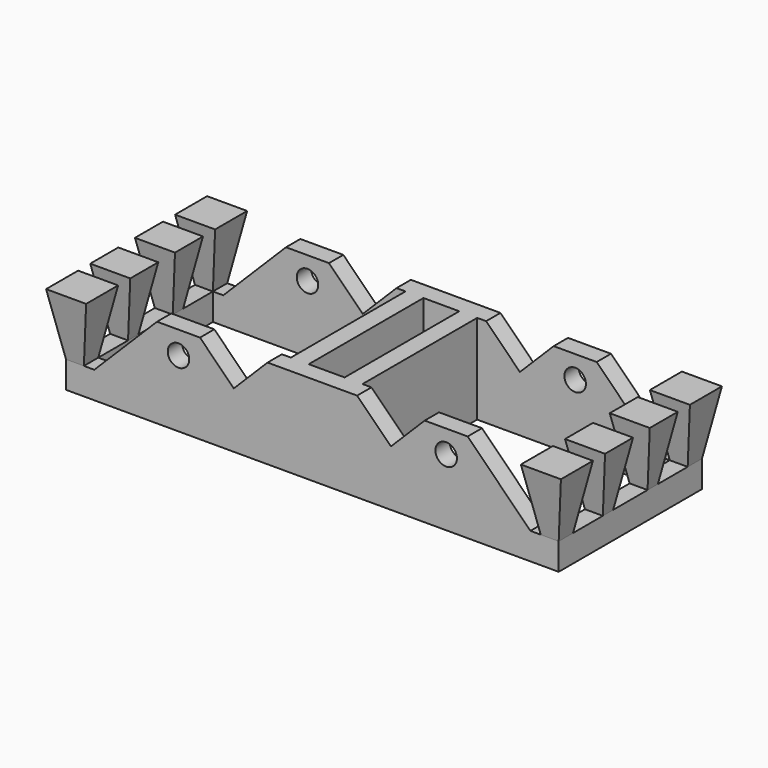
from build123d import *

# Parameters (mm, degrees)
F0_R     = 1.25
F1_DEPTH = 20.8333333333
F2_W     = 22.3958333333
F2_H     = 16.6666666667
F2_W_2   = 4.1666666667
F3_DEPTH = 10.4176666667
F5_W     = 2.0833333333
F5_H     = 2.0833333333
F5_H_2   = 1.5
F6_DEPTH = 7.2916666667
F6_TAPER = -10


with BuildPart() as f1:
    # F0 (on Front) → F1 (new body)
    with BuildSketch(Plane.XZ):
        Polygon((-28.6458333333, 0), (0, 0), (28.6458333333, 0), (28.6458333333, 3.125), (25.3541666667, 3.125), (18.0625, 10.4166666667), (13.0625, 10.4166666667), (9.1354166667, 6.4895833333), (5.2083333333, 10.4166666667), (0, 10.4166666667), (-5.2083333333, 10.4166666667), (-9.1354166667, 6.4895833333), (-13.0625, 10.4166666667), (-18.0625, 10.4166666667), (-25.3541666667, 3.125), (-28.6458333333, 3.125), align=None)
        with Locations((-15.5625, 7.7708333333)):
            Circle(F0_R, mode=Mode.SUBTRACT)
        with Locations((15.5625, 7.7708333333)):
            Circle(F0_R, mode=Mode.SUBTRACT)
    extrude(amount=F1_DEPTH)

    # F2 (on face) → F3 (cut, through all)
    with BuildSketch(Plane.XY.offset(10.4166666667)):
        with Locations((-15.3645833333, -10.4166666667)):
            Rectangle(F2_W, F2_H)
        with Locations((15.3645833333, -10.4166666667)):
            Rectangle(F2_W, F2_H)
        with Locations((0, -10.4166666667)):
            Rectangle(F2_W_2, F2_H)
    extrude(amount=-F3_DEPTH, mode=Mode.SUBTRACT)

    # F5 (on offset) → F6 (join, through all)
    with BuildSketch(Plane.XY.offset(3.125)):
        with Locations((-27.6041666667, -1.0416666667)):
            Rectangle(F5_W, F5_H)
        with Locations((-27.6041666667, -19.7916666667)):
            Rectangle(F5_W, F5_H)
        with Locations((27.6041666667, -1.0416666667)):
            Rectangle(F5_W, F5_H)
        with Locations((27.6041666667, -19.7916666667)):
            Rectangle(F5_W, F5_H)
        with Locations((27.6041666667, -7.1666666667)):
            Rectangle(F5_W, F5_H_2)
        with Locations((27.6041666667, -13.6666666667)):
            Rectangle(F5_W, F5_H_2)
        with Locations((-27.6041666667, -7.1666666667)):
            Rectangle(F5_W, F5_H_2)
        with Locations((-27.6041666667, -13.6666666667)):
            Rectangle(F5_W, F5_H_2)
    extrude(amount=F6_DEPTH, taper=F6_TAPER)


solid = f1.part
